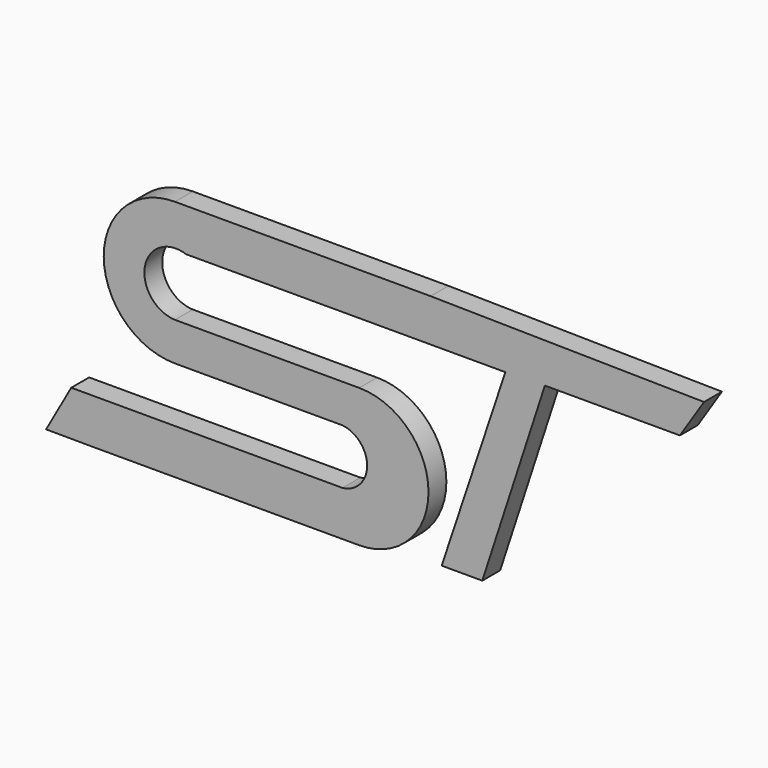
from build123d import *

# Parameters (mm, degrees)
F1_DEPTH = 25.4


with BuildPart() as f1:
    # F0 (on Front) → F1 (new body)
    with BuildSketch(Plane.XZ):
        with BuildLine():
            Line((-285.948157, -59.328571), (-227.904438, -59.582352))
            Line((-227.904438, -59.582352), (-22.990704, -59.582352))
            Line((-22.990704, -59.582352), (69.979418, -59.582352))
            ThreePointArc((69.979418, -59.582352), (148.719418, 19.157648), (69.979418, 97.897648))
            Line((69.979418, 97.897648), (-137.222798, 97.897648))
            ThreePointArc((-137.222798, 97.897648), (-138.358435, 97.879669), (-139.494072, 97.897648))
            ThreePointArc((-139.494072, 97.897648), (-173.643232, 140.245539), (-126.661629, 167.672496))
            Line((-126.661629, 167.672496), (213.635295, 167.672496))
            Line((213.635295, 167.672496), (236.094966, 167.672496))
            Line((236.094966, 167.672496), (163.724869, -49.507157))
            Line((163.724869, -49.507157), (209.892004, -49.507157))
            Line((209.892004, -49.507157), (281.014368, 168.850894))
            Line((281.014368, 168.850894), (434.488877, 168.850894))
            Line((434.488877, 168.850894), (461.939618, 211.274754))
            Line((461.939618, 211.274754), (151.138156, 216.07701))
            Line((151.138156, 216.07701), (-139.494072, 216.07701))
            ThreePointArc((-139.494072, 216.07701), (-220.40327, 135.167812), (-139.494072, 54.258614))
            Line((-139.494072, 54.258614), (51.005928, 54.258614))
            ThreePointArc((51.005928, 54.258614), (78.975284, 22.952343), (51.005928, -8.353929))
            ThreePointArc((51.005928, -8.353929), (47.469956, -8.552986), (43.933983, -8.353929))
            Line((43.933983, -8.353929), (-189.957458, -8.353929))
            Line((-189.957458, -8.353929), (-257.332444, -8.353929))
            Line((-257.332444, -8.353929), (-285.948157, -59.328571))
        make_face()
        with BuildLine():
            ThreePointArc((-139.494072, 97.897648), (-138.358435, 97.879669), (-137.222798, 97.897648))
            Line((-137.222798, 97.897648), (-139.494072, 97.897648))
        make_face()
        with BuildLine():
            Line((51.005928, -8.353929), (43.933983, -8.353929))
            ThreePointArc((43.933983, -8.353929), (47.469956, -8.552986), (51.005928, -8.353929))
        make_face()
    extrude(amount=F1_DEPTH)


solid = f1.part
